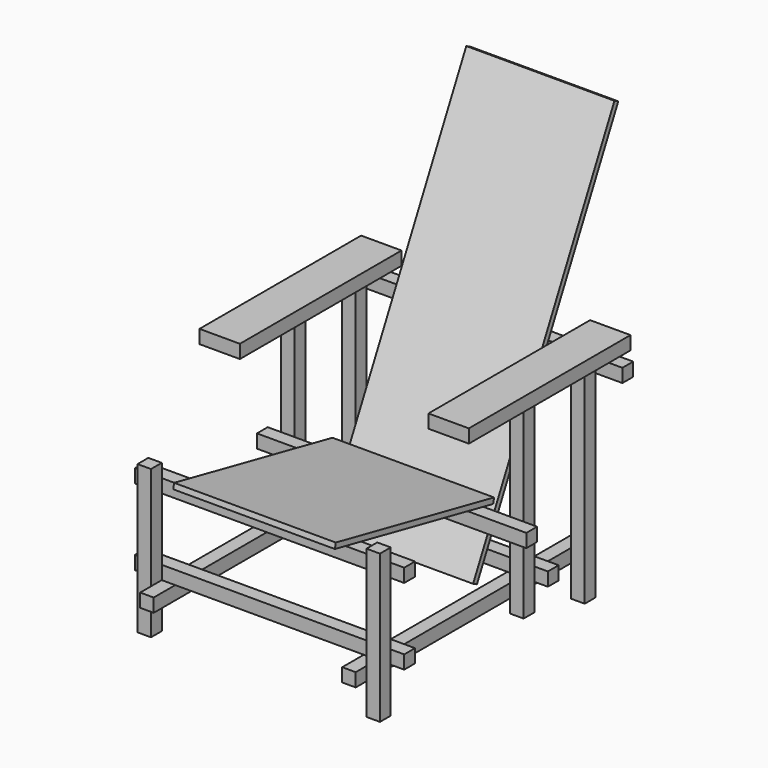
from build123d import *

# Parameters (mm, degrees)
F2_W           = 30
F2_H           = 30
F3_DEPTH       = 330
F4_DEPTH       = 470
F7_DEPTH       = 30
F6_W           = 30
F6_H           = 30
F8_DEPTH       = 400
F8_DEPTH_BACK  = 30
F9_W           = 90
F9_H           = 450
F9_W_2         = 30
F9_H_2         = 30
F10_DEPTH      = 30
F11_W          = 30
F11_H          = 30
F12_DEPTH      = 30
F12_DEPTH_BACK = 570
F13_W          = 540
F13_H          = 30
F13_W_2        = 30
F13_W_3        = 90
F14_DEPTH      = 30
F16_DEPTH      = 180
F17_DEPTH      = 165


with BuildPart() as f3:
    # F2 (on Top) → F3 (new body)
    with BuildSketch(Plane.XY):
        with Locations((255, -285)):
            Rectangle(F2_W, F2_H)
    extrude(amount=F3_DEPTH)


with BuildPart() as f3b:
    # F2 (on Top) → F3, piece 2 (new body)
    with BuildSketch(Plane.XY):
        with Locations((-255, -285)):
            Rectangle(F2_W, F2_H)
    extrude(amount=F3_DEPTH)


with BuildPart() as f4:
    # F2 (on Top) → F4 (new body)
    with BuildSketch(Plane.XY):
        with Locations((-255, 285)):
            Rectangle(F2_W, F2_H)
    extrude(amount=F4_DEPTH)


with BuildPart() as f4b:
    # F2 (on Top) → F4, piece 2 (new body)
    with BuildSketch(Plane.XY):
        with Locations((255, 285)):
            Rectangle(F2_W, F2_H)
    extrude(amount=F4_DEPTH)


with BuildPart() as f7:
    # F6 (on offset) → F7 (new body)
    with BuildSketch(Plane.XY.offset(70)):
        Polygon((-210, -330), (-210, 330), (-240, 330), (-240, 130), (-240, 100), (-240, -330), align=None)
    extrude(amount=F7_DEPTH)


with BuildPart() as f7b:
    # F6 (on offset) → F7, piece 2 (new body)
    with BuildSketch(Plane.XY.offset(70)):
        Polygon((240, 130), (240, 330), (210, 330), (210, -330), (240, -330), (240, 100), align=None)
    extrude(amount=F7_DEPTH)


with BuildPart() as f8:
    # F6 (on offset) → F8 (new body, two sides)
    with BuildSketch(Plane.XY.offset(70)) as f8_sk:
        with Locations((-255, 115)):
            Rectangle(F6_W, F6_H)
    extrude(amount=F8_DEPTH)
    extrude(f8_sk.sketch, amount=-F8_DEPTH_BACK)


with BuildPart() as f8b:
    # F6 (on offset) → F8, piece 2 (new body, two sides)
    with BuildSketch(Plane.XY.offset(70)) as f8_2_sk:
        with Locations((255, 115)):
            Rectangle(F6_W, F6_H)
    extrude(amount=F8_DEPTH)
    extrude(f8_2_sk.sketch, amount=-F8_DEPTH_BACK)


with BuildPart() as f10:
    # F9 (on face) → F10 (new body)
    with BuildSketch(Plane.XY.offset(470)):
        with Locations((-255, 135)):
            Rectangle(F9_W, F9_H)
        with Locations((-255, 285)):
            Rectangle(F9_W_2, F9_H_2, mode=Mode.SUBTRACT)
        with Locations((-255, 285)):
            Rectangle(F9_W_2, F9_H_2)
    extrude(amount=F10_DEPTH)


with BuildPart() as f10b:
    # F9 (on face) → F10, piece 2 (new body)
    with BuildSketch(Plane.XY.offset(470)):
        with Locations((255, 135)):
            Rectangle(F9_W, F9_H)
    extrude(amount=F10_DEPTH)


with BuildPart() as f12:
    # F11 (on face) → F12 (new body, two sides)
    with BuildSketch(Plane(origin=(-270, 0, 0), x_dir=(0, -1, 0), z_dir=(-1, 0, 0))) as f12_sk:
        with Locations((-145, 115)):
            Rectangle(F11_W, F11_H)
    extrude(amount=F12_DEPTH)
    extrude(f12_sk.sketch, amount=-F12_DEPTH_BACK)


with BuildPart() as f12b:
    # F11 (on face) → F12, piece 2 (new body, two sides)
    with BuildSketch(Plane(origin=(-270, 0, 0), x_dir=(0, -1, 0), z_dir=(-1, 0, 0))) as f12_2_sk:
        with Locations((255, 115)):
            Rectangle(F11_W, F11_H)
    extrude(amount=F12_DEPTH)
    extrude(f12_2_sk.sketch, amount=-F12_DEPTH_BACK)


with BuildPart() as f12c:
    # F11 (on face) → F12, piece 3 (new body, two sides)
    with BuildSketch(Plane(origin=(-270, 0, 0), x_dir=(0, -1, 0), z_dir=(-1, 0, 0))) as f12_3_sk:
        with Locations((-85, 215)):
            Rectangle(F11_W, F11_H)
    extrude(amount=F12_DEPTH)
    extrude(f12_3_sk.sketch, amount=-F12_DEPTH_BACK)


with BuildPart() as f12d:
    # F11 (on face) → F12, piece 4 (new body, two sides)
    with BuildSketch(Plane(origin=(-270, 0, 0), x_dir=(0, -1, 0), z_dir=(-1, 0, 0))) as f12_4_sk:
        with Locations((255, 285)):
            Rectangle(F11_W, F11_H)
    extrude(amount=F12_DEPTH)
    extrude(f12_4_sk.sketch, amount=-F12_DEPTH_BACK)


with BuildPart() as f14:
    # F13 (on face) → F14 (new body)
    with BuildSketch(Plane(origin=(0, 0, 470), x_dir=(1, 0, 0), z_dir=(0, 0, -1))):
        with Locations((-60, -315)):
            Rectangle(F13_W, F13_H)
        with Locations((315, -315)):
            Rectangle(F13_W_2, F13_H)
        with Locations((255, -315)):
            Rectangle(F13_W_3, F13_H)
    extrude(amount=F14_DEPTH)


with BuildPart() as f16:
    # F15 (on Right) → F16 (new body, symmetric)
    with BuildSketch(Plane.YZ):
        Polygon((-310.580164952, 326.7828962838), (-313, 315.0294117647), (127.7556694655, 224.285597463), (130.1755045135, 236.0390819821), align=None)
    extrude(amount=F16_DEPTH, both=True)


with BuildPart() as f17:
    # F15 (on Right) → F17 (new body, symmetric)
    with BuildSketch(Plane.YZ):
        Polygon((101.268754387, 72.5375087741), (494.816718427, 859.633436854), (484.083592135, 865), (90.535628095, 77.9040719201), align=None)
    extrude(amount=F17_DEPTH, both=True)


solid = Compound([f3.part, f3b.part, f4.part, f4b.part, f7.part, f7b.part, f8.part, f8b.part, f10.part, f10b.part, f12.part, f12b.part, f12c.part, f12d.part, f14.part, f16.part, f17.part])
